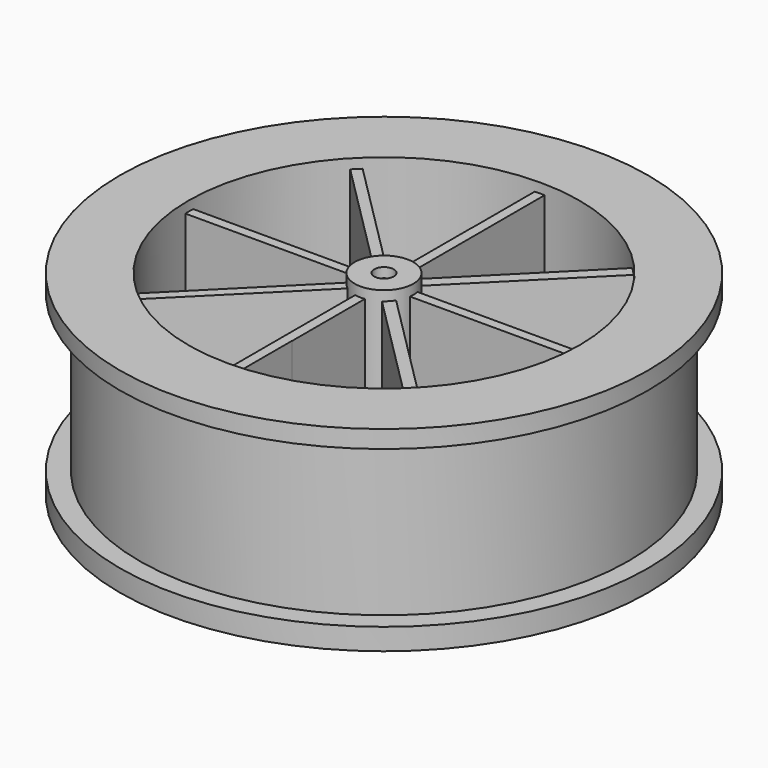
from build123d import *

# Parameters (mm, degrees)
BOX006_W               = 35
BOX006_H               = 1
BOX006_DEPTH           = 18
BOX005_W               = 20
BOX005_H               = 1
BOX005_DEPTH           = 18
BOX004_W               = 45
BOX004_H               = 1
BOX004_DEPTH           = 18
BOX003_W               = 20
BOX003_H               = 1
BOX003_DEPTH           = 18
BOX003_PLACEMENT_ANGLE = 45
BOX002_W               = 35
BOX002_H               = 1
BOX002_DEPTH           = 18
BOX001_W               = 45
BOX001_H               = 1
BOX001_DEPTH           = 18
BOX001_PLACEMENT_ANGLE = 45
BOX_W                  = 20
BOX_H                  = 1
BOX_DEPTH              = 18
BOX_PLACEMENT_ANGLE    = 45
TUBE003_R              = 3
TUBE003_R_2            = 1
TUBE003_DEPTH          = 20
BOX007_W               = 45
BOX007_H               = 1
BOX007_DEPTH           = 18
BOX007_PLACEMENT_ANGLE = 45
TUBE002_R              = 20
TUBE002_R_2            = 2
TUBE002_DEPTH          = 25
TUBE001_R              = 40
TUBE001_R_2            = 25
TUBE001_DEPTH          = 16
TUBE_R                 = 27
TUBE_R_2               = 15
TUBE_DEPTH             = 20


with BuildPart() as cubo006:
    # Box006 → Box006 (new body)
    with BuildSketch(Plane(origin=(-0.6, 12, 1), x_dir=(0, -1, 0), z_dir=(0, 0, 1))):
        with Locations((17.5, 0.5)):
            Rectangle(BOX006_W, BOX006_H)
    extrude(amount=BOX006_DEPTH)


with BuildPart() as cubo005:
    # Box005 → Box005 (new body)
    with BuildSketch(Plane(origin=(1.8, -0.4, 1), x_dir=(1, 0, 0), z_dir=(0, 0, 1))):
        with Locations((10, 0.5)):
            Rectangle(BOX005_W, BOX005_H)
    extrude(amount=BOX005_DEPTH)


with BuildPart() as cubo004:
    # Box004 → Box004 (new body)
    with BuildSketch(Plane(origin=(-22.4, -0.4, 1), x_dir=(1, 0, 0), z_dir=(0, 0, 1))):
        with Locations((22.5, 0.5)):
            Rectangle(BOX004_W, BOX004_H)
    extrude(amount=BOX004_DEPTH)


with BuildPart() as cubo003:
    # Box003 → Box003 (new body)
    with BuildSketch(Plane.XY):
        with Locations((10, 0.5)):
            Rectangle(BOX003_W, BOX003_H)
    extrude(amount=BOX003_DEPTH)


with BuildPart() as cubo003_1:
    # Box003 placement: moved
    add(cubo003.part.moved(Location((2.23, 1.34, 1))).rotate(Axis((2.23, 1.34, 1), (0, 0, 1)), BOX003_PLACEMENT_ANGLE))


with BuildPart() as cubo002:
    # Box002 → Box002 (new body)
    with BuildSketch(Plane(origin=(0.42, -12.28, 1), x_dir=(0, 1, 0), z_dir=(0, 0, 1))):
        with Locations((17.5, 0.5)):
            Rectangle(BOX002_W, BOX002_H)
    extrude(amount=BOX002_DEPTH)


with BuildPart() as cubo001:
    # Box001 → Box001 (new body)
    with BuildSketch(Plane.XY):
        with Locations((22.5, 0.5)):
            Rectangle(BOX001_W, BOX001_H)
    extrude(amount=BOX001_DEPTH)


with BuildPart() as cubo001_1:
    # Box001 placement: moved
    add(cubo001.part.moved(Location((-16.81, -17.43, 1))).rotate(Axis((-16.81, -17.43, 1), (0, 0, 1)), BOX001_PLACEMENT_ANGLE))


with BuildPart() as cubo:
    # Box → Box (new body)
    with BuildSketch(Plane.XY):
        with Locations((10, 0.5)):
            Rectangle(BOX_W, BOX_H)
    extrude(amount=BOX_DEPTH)


with BuildPart() as cubo_1:
    # Box placement: moved
    add(cubo.part.moved(Location((0.75, -1.25, 1))).rotate(Axis((0.75, -1.25, 1), (0, 0, -1)), BOX_PLACEMENT_ANGLE))


with BuildPart() as tube003:
    # Tube003 → Tube003 (new body)
    with BuildSketch(Plane.XY):
        Circle(TUBE003_R)
        Circle(TUBE003_R_2, mode=Mode.SUBTRACT)
    extrude(amount=TUBE003_DEPTH)


with BuildPart() as fusion:
    # Box007 → Box007 (new body)
    with BuildSketch(Plane.XY):
        with Locations((22.5, 0.5)):
            Rectangle(BOX007_W, BOX007_H)
    extrude(amount=BOX007_DEPTH)


with BuildPart() as fusion_1:
    # Box007 placement: moved
    add(fusion.part.moved(Location((-16.706753, 16.006753, 1))).rotate(Axis((-16.706753, 16.006753, 1), (0, 0, -1)), BOX007_PLACEMENT_ANGLE))

    # Fusion: union Cubo006, Cubo005, Cubo004, Cubo003, Cubo002, Cubo001, Cubo, Tube003
    add(cubo006.part)
    add(cubo005.part)
    add(cubo004.part)
    add(cubo003_1.part)
    add(cubo002.part)
    add(cubo001_1.part)
    add(cubo_1.part)
    add(tube003.part)


with BuildPart() as tube002:
    # Tube002 → Tube002 (new body)
    with BuildSketch(Plane.XY.offset(-2.6)):
        Circle(TUBE002_R)
        Circle(TUBE002_R_2, mode=Mode.SUBTRACT)
    extrude(amount=TUBE002_DEPTH)


with BuildPart() as tube001:
    # Tube001 → Tube001 (new body)
    with BuildSketch(Plane.XY.offset(2.2)):
        Circle(TUBE001_R)
        Circle(TUBE001_R_2, mode=Mode.SUBTRACT)
    extrude(amount=TUBE001_DEPTH)


with BuildPart() as fusion001:
    # Tube → Tube (new body)
    with BuildSketch(Plane.XY):
        Circle(TUBE_R)
        Circle(TUBE_R_2, mode=Mode.SUBTRACT)
    extrude(amount=TUBE_DEPTH)

    # Cut: cut Tube001
    add(tube001.part, mode=Mode.SUBTRACT)

    # Cut001: cut Tube002
    add(tube002.part, mode=Mode.SUBTRACT)

    # Fusion001: union Fusion
    add(fusion_1.part)


solid = fusion001.part
